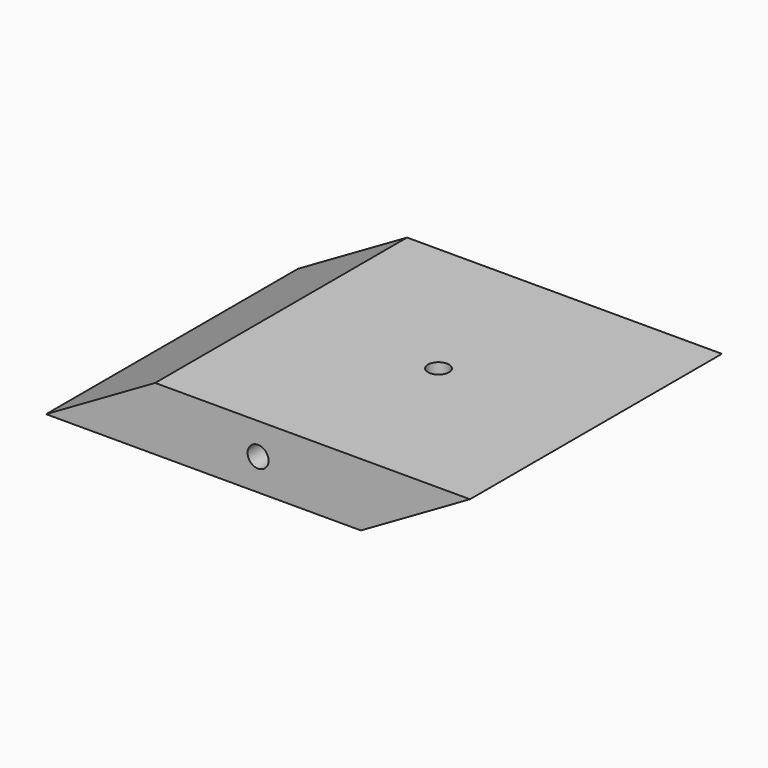
from build123d import *

# Parameters (mm, degrees)
F1_DEPTH = 381
F2_R     = 12.7
F3_DEPTH = 381
F5_R     = 12.7
F6_DEPTH = 25.4
F4_R     = 12.7
F7_DEPTH = 25.4


with BuildPart() as f1:
    # F0 (on Front) → F1 (new body)
    with BuildSketch(Plane.XZ):
        Polygon((-99.244288, 21.165265), (-231.226559, -55.034735), (149.773441, -55.034735), (281.755712, 21.165265), align=None)
    extrude(amount=F1_DEPTH)

    # F2 (on face) → F3 (cut)
    with BuildSketch(Plane.XZ.offset(381)):
        with Locations((25.264577, -16.934735)):
            Circle(F2_R)
    extrude(amount=-F3_DEPTH, mode=Mode.SUBTRACT)

    # F5 (on face) → F6 (cut)
    with BuildSketch(Plane(origin=(0, 0, -55.034735), x_dir=(1, 0, 0), z_dir=(0, 0, -1))):
        with Locations((-40.726559, 190.5)):
            Circle(F5_R)
    extrude(amount=-F6_DEPTH, mode=Mode.SUBTRACT)

    # F4 (on face) → F7 (cut)
    with BuildSketch(Plane.XY.offset(21.165265)):
        with Locations((91.255712, -190.5)):
            Circle(F4_R)
    extrude(amount=-F7_DEPTH, mode=Mode.SUBTRACT)


solid = f1.part
